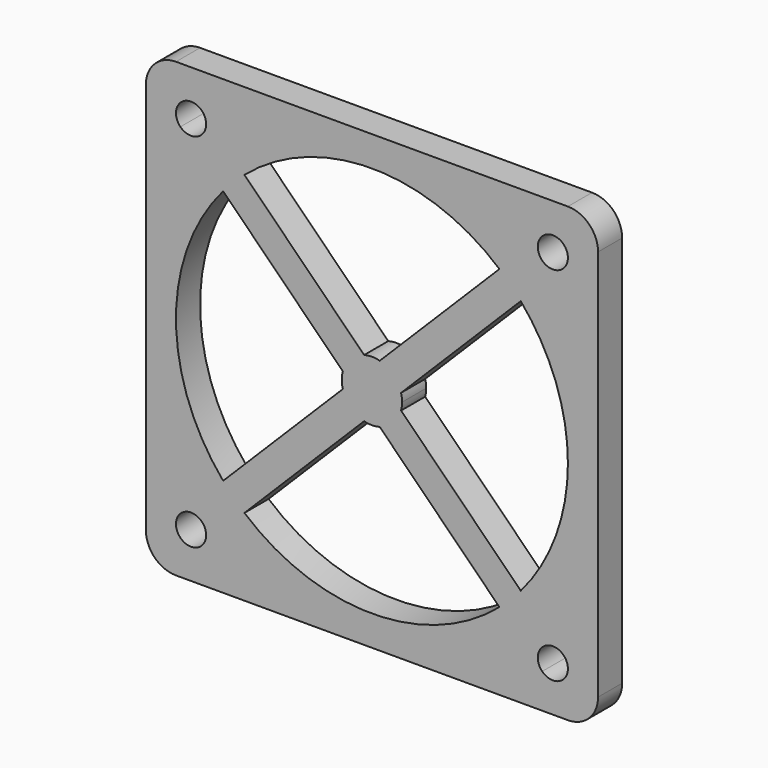
from build123d import *

# Parameters (mm, degrees)
F1_DEPTH = 2


with BuildPart() as f1:
    # F0 (on Front) → F1 (new body)
    with BuildSketch(Plane.XZ):
        with BuildLine():
            Line((-13, -15), (13, -15))
            ThreePointArc((13, -15), (14.4142135624, -14.4142135624), (15, -13))
            Line((15, -13), (15, 13))
            ThreePointArc((15, 13), (14.4142135624, 14.4142135624), (13, 15))
            Line((13, 15), (-13, 15))
            ThreePointArc((-13, 15), (-14.4142135624, 14.4142135624), (-15, 13))
            Line((-15, 13), (-15, -13))
            ThreePointArc((-15, -13), (-14.4142135624, -14.4142135624), (-13, -15))
        make_face()
        with BuildLine():
            ThreePointArc((-12.7071067812, 11.2928932188), (-12.7071067812, 12.7071067812), (-11.2928932188, 12.7071067812))
            Line((-11.2928932188, 12.7071067812), (-8.4580446087, 9.8722581711))
            ThreePointArc((-8.4580446087, 9.8722581711), (0, 13), (8.4580446087, 9.8722581711))
            Line((8.4580446087, 9.8722581711), (11.2928932188, 12.7071067812))
            ThreePointArc((11.2928932188, 12.7071067812), (12.3826834324, 12.9238795325), (13, 12))
            ThreePointArc((13, 12), (12.9238795325, 11.6173165676), (12.7071067812, 11.2928932188))
            Line((12.7071067812, 11.2928932188), (9.8722581711, 8.4580446087))
            ThreePointArc((9.8722581711, 8.4580446087), (12.1930175966, 4.5089158218), (13, 0))
            ThreePointArc((13, 0), (12.1930175966, -4.5089158218), (9.8722581711, -8.4580446087))
            Line((9.8722581711, -8.4580446087), (12.7071067812, -11.2928932188))
            ThreePointArc((12.7071067812, -11.2928932188), (12.9238795325, -11.6173165676), (13, -12))
            ThreePointArc((13, -12), (12.3826834324, -12.9238795325), (11.2928932188, -12.7071067812))
            Line((11.2928932188, -12.7071067812), (8.4580446087, -9.8722581711))
            ThreePointArc((8.4580446087, -9.8722581711), (0, -13), (-8.4580446087, -9.8722581711))
            Line((-8.4580446087, -9.8722581711), (-11.2928932188, -12.7071067812))
            ThreePointArc((-11.2928932188, -12.7071067812), (-12.7071067812, -12.7071067812), (-12.7071067812, -11.2928932188))
            Line((-12.7071067812, -11.2928932188), (-9.8722581711, -8.4580446087))
            ThreePointArc((-9.8722581711, -8.4580446087), (-13, 0), (-9.8722581711, 8.4580446087))
            Line((-9.8722581711, 8.4580446087), (-12.7071067812, 11.2928932188))
        make_face(mode=Mode.SUBTRACT)
        with BuildLine():
            ThreePointArc((-11.2928932188, 12.7071067812), (-11.0761204675, 12.3826834324), (-11, 12))
            ThreePointArc((-11, 12), (-11.6173165676, 11.0761204675), (-12.7071067812, 11.2928932188))
            Line((-12.7071067812, 11.2928932188), (-9.8722581711, 8.4580446087))
            ThreePointArc((-9.8722581711, 8.4580446087), (-9.1923881554, 9.1923881554), (-8.4580446087, 9.8722581711))
            Line((-8.4580446087, 9.8722581711), (-11.2928932188, 12.7071067812))
        make_face()
        with BuildLine():
            Line((-0.5176380902, 1.9318516526), (-8.4580446087, 9.8722581711))
            ThreePointArc((-8.4580446087, 9.8722581711), (-9.1923881554, 9.1923881554), (-9.8722581711, 8.4580446087))
            Line((-9.8722581711, 8.4580446087), (-1.9318516526, 0.5176380902))
            ThreePointArc((-1.9318516526, 0.5176380902), (-1.4142135624, 1.4142135624), (-0.5176380902, 1.9318516526))
        make_face()
        with BuildLine():
            ThreePointArc((0.5176380902, 1.9318516526), (0, 2), (-0.5176380902, 1.9318516526))
            Line((-0.5176380902, 1.9318516526), (0, 1.4142135624))
            Line((0, 1.4142135624), (0.5176380902, 1.9318516526))
        make_face()
        with BuildLine():
            Line((1.9318516526, -0.5176380902), (1.4142135624, 0))
            Line((1.4142135624, 0), (0, -1.4142135624))
            Line((0, -1.4142135624), (0.5176380902, -1.9318516526))
            ThreePointArc((0.5176380902, -1.9318516526), (1.4142135624, -1.4142135624), (1.9318516526, -0.5176380902))
        make_face()
        with BuildLine():
            Line((0, 1.4142135624), (-0.5176380902, 1.9318516526))
            ThreePointArc((-0.5176380902, 1.9318516526), (-1.4142135624, 1.4142135624), (-1.9318516526, 0.5176380902))
            Line((-1.9318516526, 0.5176380902), (-1.4142135624, 0))
            Line((-1.4142135624, 0), (0, 1.4142135624))
        make_face()
        with BuildLine():
            ThreePointArc((9.8722581711, -8.4580446087), (9.1923881554, -9.1923881554), (8.4580446087, -9.8722581711))
            Line((8.4580446087, -9.8722581711), (11.2928932188, -12.7071067812))
            ThreePointArc((11.2928932188, -12.7071067812), (11.2928932188, -11.2928932188), (12.7071067812, -11.2928932188))
            Line((12.7071067812, -11.2928932188), (9.8722581711, -8.4580446087))
        make_face()
        with BuildLine():
            ThreePointArc((9.8722581711, 8.4580446087), (9.1923881554, 9.1923881554), (8.4580446087, 9.8722581711))
            Line((8.4580446087, 9.8722581711), (0.5176380902, 1.9318516526))
            ThreePointArc((0.5176380902, 1.9318516526), (1.4142135624, 1.4142135624), (1.9318516526, 0.5176380902))
            Line((1.9318516526, 0.5176380902), (9.8722581711, 8.4580446087))
        make_face()
        with BuildLine():
            ThreePointArc((2, 0), (1.9828897227, 0.2610523844), (1.9318516526, 0.5176380902))
            Line((1.9318516526, 0.5176380902), (1.4142135624, 0))
            Line((1.4142135624, 0), (1.9318516526, -0.5176380902))
            ThreePointArc((1.9318516526, -0.5176380902), (1.9828897227, -0.2610523844), (2, 0))
        make_face()
        with BuildLine():
            Line((-1.4142135624, 0), (-1.9318516526, 0.5176380902))
            ThreePointArc((-1.9318516526, 0.5176380902), (-2, 0), (-1.9318516526, -0.5176380902))
            Line((-1.9318516526, -0.5176380902), (-1.4142135624, 0))
        make_face()
        Polygon((1.4142135624, 0), (0, 1.4142135624), (-1.4142135624, 0), (0, -1.4142135624), align=None)
        with BuildLine():
            Line((-1.4142135624, 0), (-1.9318516526, -0.5176380902))
            ThreePointArc((-1.9318516526, -0.5176380902), (-1.4142135624, -1.4142135624), (-0.5176380902, -1.9318516526))
            Line((-0.5176380902, -1.9318516526), (0, -1.4142135624))
            Line((0, -1.4142135624), (-1.4142135624, 0))
        make_face()
        with BuildLine():
            ThreePointArc((-8.4580446087, -9.8722581711), (-9.1923881554, -9.1923881554), (-9.8722581711, -8.4580446087))
            Line((-9.8722581711, -8.4580446087), (-12.7071067812, -11.2928932188))
            ThreePointArc((-12.7071067812, -11.2928932188), (-11.6173165676, -11.0761204675), (-11, -12))
            ThreePointArc((-11, -12), (-11.0761204675, -12.3826834324), (-11.2928932188, -12.7071067812))
            Line((-11.2928932188, -12.7071067812), (-8.4580446087, -9.8722581711))
        make_face()
        with BuildLine():
            Line((11.2928932188, 12.7071067812), (8.4580446087, 9.8722581711))
            ThreePointArc((8.4580446087, 9.8722581711), (9.1923881554, 9.1923881554), (9.8722581711, 8.4580446087))
            Line((9.8722581711, 8.4580446087), (12.7071067812, 11.2928932188))
            ThreePointArc((12.7071067812, 11.2928932188), (11.2928932188, 11.2928932188), (11.2928932188, 12.7071067812))
        make_face()
        with BuildLine():
            Line((0, -1.4142135624), (-0.5176380902, -1.9318516526))
            ThreePointArc((-0.5176380902, -1.9318516526), (0, -2), (0.5176380902, -1.9318516526))
            Line((0.5176380902, -1.9318516526), (0, -1.4142135624))
        make_face()
        with BuildLine():
            ThreePointArc((1.9318516526, 0.5176380902), (1.4142135624, 1.4142135624), (0.5176380902, 1.9318516526))
            Line((0.5176380902, 1.9318516526), (0, 1.4142135624))
            Line((0, 1.4142135624), (1.4142135624, 0))
            Line((1.4142135624, 0), (1.9318516526, 0.5176380902))
        make_face()
        with BuildLine():
            Line((-1.9318516526, -0.5176380902), (-9.8722581711, -8.4580446087))
            ThreePointArc((-9.8722581711, -8.4580446087), (-9.1923881554, -9.1923881554), (-8.4580446087, -9.8722581711))
            Line((-8.4580446087, -9.8722581711), (-0.5176380902, -1.9318516526))
            ThreePointArc((-0.5176380902, -1.9318516526), (-1.4142135624, -1.4142135624), (-1.9318516526, -0.5176380902))
        make_face()
        with BuildLine():
            Line((0.5176380902, -1.9318516526), (8.4580446087, -9.8722581711))
            ThreePointArc((8.4580446087, -9.8722581711), (9.1923881554, -9.1923881554), (9.8722581711, -8.4580446087))
            Line((9.8722581711, -8.4580446087), (1.9318516526, -0.5176380902))
            ThreePointArc((1.9318516526, -0.5176380902), (1.4142135624, -1.4142135624), (0.5176380902, -1.9318516526))
        make_face()
    extrude(amount=F1_DEPTH)


solid = f1.part
